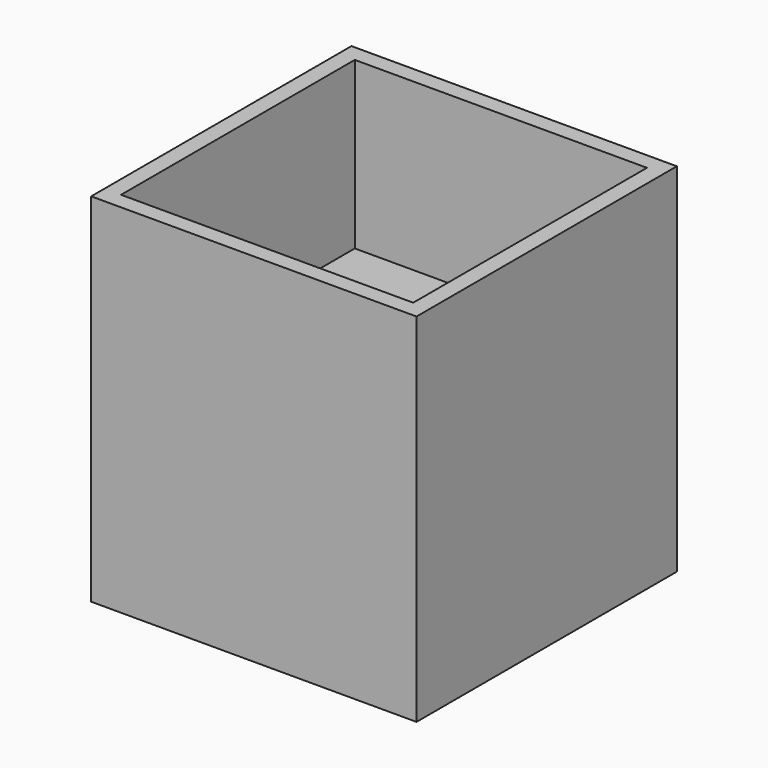
from build123d import *

# Parameters (mm, degrees)
F0_W     = 19.6
F0_H     = 19.6
F1_DEPTH = 21.5
F2_W     = 17.6
F2_H     = 17.6
F3_DEPTH = 10.5
F4_W     = 17.6
F4_H     = 17.6
F5_DEPTH = 10
F6_R     = 1.75
F7_DEPTH = 1


with BuildPart() as f1:
    # F0 (on Top) → F1 (new body)
    with BuildSketch(Plane.XY):
        Rectangle(F0_W, F0_H)
    extrude(amount=F1_DEPTH)

    # F2 (on face) → F3 (cut)
    with BuildSketch(Plane(origin=(0, 0, 0), x_dir=(1, 0, 0), z_dir=(0, 0, -1))):
        Rectangle(F2_W, F2_H)
    extrude(amount=-F3_DEPTH, mode=Mode.SUBTRACT)

    # F4 (on face) → F5 (cut)
    with BuildSketch(Plane.XY.offset(21.5)):
        Rectangle(F4_W, F4_H)
    extrude(amount=-F5_DEPTH, mode=Mode.SUBTRACT)

    # F6 (on face) → F7 (cut)
    with BuildSketch(Plane.XY.offset(11.5)):
        Circle(F6_R)
    extrude(amount=-F7_DEPTH, mode=Mode.SUBTRACT)


solid = f1.part
